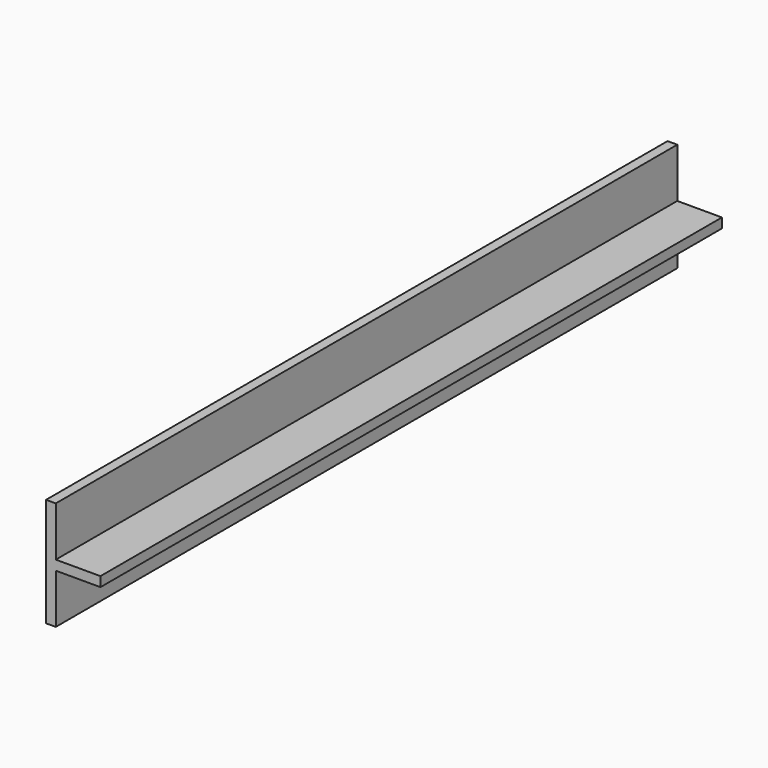
from build123d import *

# Parameters (mm, degrees)
F1_DEPTH = 254


with BuildPart() as f1:
    # F0 (on Front) → F1 (new body)
    with BuildSketch(Plane.XZ):
        Polygon((0, 17.78), (0, 0), (3.175, 0), (3.175, 16.1925), (17.78, 16.1925), (17.78, 19.3675), (3.175, 19.3675), (3.175, 35.56), (0, 35.56), align=None)
    extrude(amount=-F1_DEPTH)


solid = f1.part
